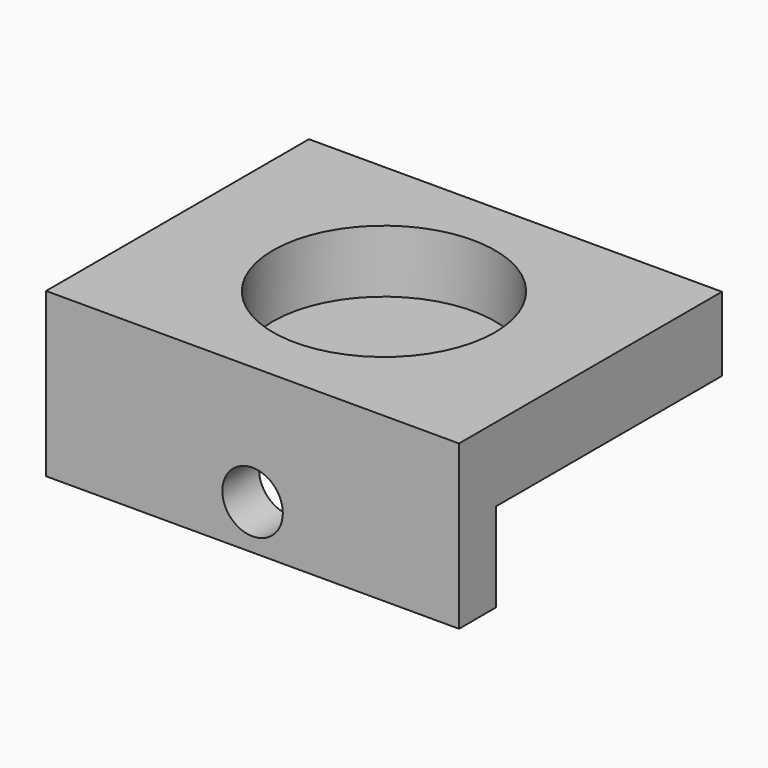
from build123d import *

# Parameters (mm, degrees)
F0_W     = 35.35511
F0_H     = 28.1335
F0_R     = 9.5075
F1_DEPTH = 1
F2_DEPTH = 6.35
F3_W     = 35.35511
F3_H     = 7.62
F3_R     = 2.5908
F4_DEPTH = 3.937


with BuildPart() as f1:
    # F0 (on Top) → F1 (new body)
    with BuildSketch(Plane.XY):
        Rectangle(F0_W, F0_H)
        Circle(F0_R, mode=Mode.SUBTRACT)
        Circle(F0_R)
    extrude(amount=F1_DEPTH)

    # F0 (on Top) → F2 (join)
    with BuildSketch(Plane.XY):
        Rectangle(F0_W, F0_H)
        Circle(F0_R, mode=Mode.SUBTRACT)
    extrude(amount=F2_DEPTH)

    # F3 (on face) → F4 (join)
    with BuildSketch(Plane.XZ.offset(14.06675)):
        with Locations((0, -3.81)):
            Rectangle(F3_W, F3_H)
        with Locations((0, -3.81)):
            Circle(F3_R, mode=Mode.SUBTRACT)
    extrude(amount=-F4_DEPTH)


solid = f1.part
